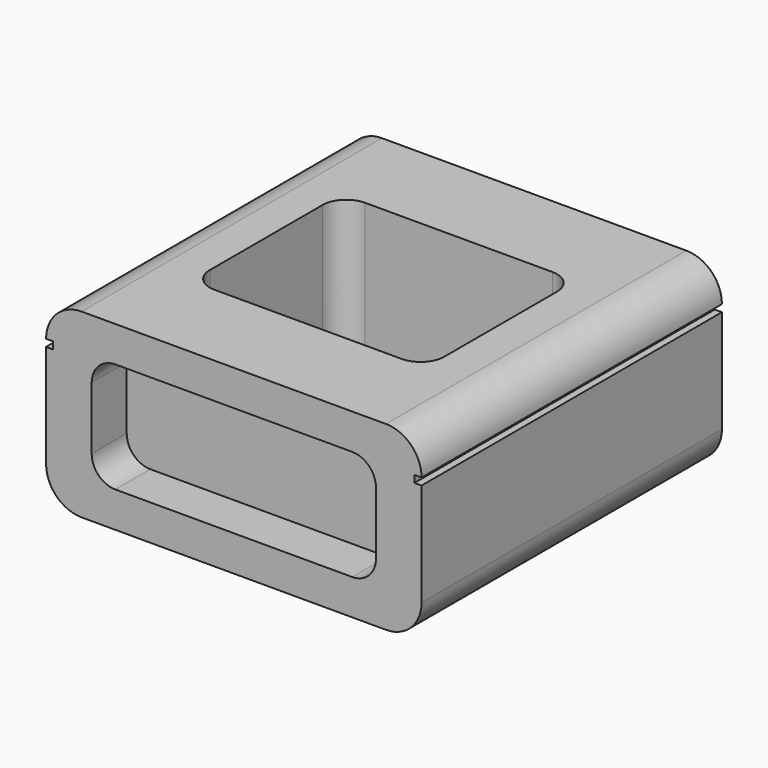
from build123d import *

# Parameters (mm, degrees)
F1_DEPTH = 80.518
F3_DEPTH = 9.398
F4_W     = 1.524
F4_H     = 1.524
F5_DEPTH = 80.519
F7_DEPTH = 27.178
F9_DEPTH = 14.478


with BuildPart() as f1:
    # F0 (on Front) → F1 (new body)
    with BuildSketch(Plane.XZ):
        with BuildLine():
            ThreePointArc((40.259, 11.811), (38.027154, 17.199154), (32.639, 19.431))
            Line((32.639, 19.431), (-32.639, 19.431))
            ThreePointArc((-32.639, 19.431), (-38.027154, 17.199154), (-40.259, 11.811))
            Line((-40.259, 11.811), (-40.259, -11.811))
            ThreePointArc((-40.259, -11.811), (-38.027154, -17.199154), (-32.639, -19.431))
            Line((-32.639, -19.431), (32.639, -19.431))
            ThreePointArc((32.639, -19.431), (38.027154, -17.199154), (40.259, -11.811))
            Line((40.259, -11.811), (40.259, 11.811))
        make_face()
    extrude(amount=F1_DEPTH)

    # F2 (on face) → F3 (cut)
    with BuildSketch(Plane.XZ.offset(80.518)):
        with BuildLine():
            ThreePointArc((30.48, 6.731), (28.992102, 10.323102), (25.4, 11.811))
            Line((25.4, 11.811), (-25.4, 11.811))
            ThreePointArc((-25.4, 11.811), (-28.992102, 10.323102), (-30.48, 6.731))
            Line((-30.48, 6.731), (-30.48, -6.731))
            ThreePointArc((-30.48, -6.731), (-28.992102, -10.323102), (-25.4, -11.811))
            Line((-25.4, -11.811), (25.4, -11.811))
            ThreePointArc((25.4, -11.811), (28.992102, -10.323102), (30.48, -6.731))
            Line((30.48, -6.731), (30.48, 6.731))
        make_face()
    extrude(amount=-F3_DEPTH, mode=Mode.SUBTRACT)

    # F4 (on face) → F5 (cut, through all)
    with BuildSketch(Plane.XZ.offset(80.518)):
        with Locations((-39.497, 11.049)):
            Rectangle(F4_W, F4_H)
        with Locations((39.497, 11.049)):
            Rectangle(F4_W, F4_H)
    extrude(amount=-F5_DEPTH, mode=Mode.SUBTRACT)

    # F6 (on face) → F7 (cut)
    with BuildSketch(Plane.XY.offset(19.431)):
        with BuildLine():
            Line((19.939, -20.066), (-20.193, -20.066))
            ThreePointArc((-20.193, -20.066), (-23.785102, -21.553898), (-25.273, -25.146))
            Line((-25.273, -25.146), (-25.273, -55.372))
            ThreePointArc((-25.273, -55.372), (-23.785102, -58.964102), (-20.193, -60.452))
            Line((-20.193, -60.452), (19.939, -60.452))
            ThreePointArc((19.939, -60.452), (23.531102, -58.964102), (25.019, -55.372))
            Line((25.019, -55.372), (25.019, -25.146))
            ThreePointArc((25.019, -25.146), (23.531102, -21.553898), (19.939, -20.066))
        make_face()
    extrude(amount=-F7_DEPTH, mode=Mode.SUBTRACT)

    # F8 (on face) → F9 (cut)
    with BuildSketch(Plane(origin=(0, 0, 0), x_dir=(-1, 0, 0), z_dir=(0, 1, 0))):
        with BuildLine():
            ThreePointArc((31.75, 7.62), (30.262102, 11.212102), (26.67, 12.7))
            Line((26.67, 12.7), (-26.67, 12.7))
            ThreePointArc((-26.67, 12.7), (-30.262102, 11.212102), (-31.75, 7.62))
            Line((-31.75, 7.62), (-31.75, -7.62))
            ThreePointArc((-31.75, -7.62), (-30.262102, -11.212102), (-26.67, -12.7))
            Line((-26.67, -12.7), (26.67, -12.7))
            ThreePointArc((26.67, -12.7), (30.262102, -11.212102), (31.75, -7.62))
            Line((31.75, -7.62), (31.75, 7.62))
        make_face()
    extrude(amount=-F9_DEPTH, mode=Mode.SUBTRACT)


solid = f1.part
